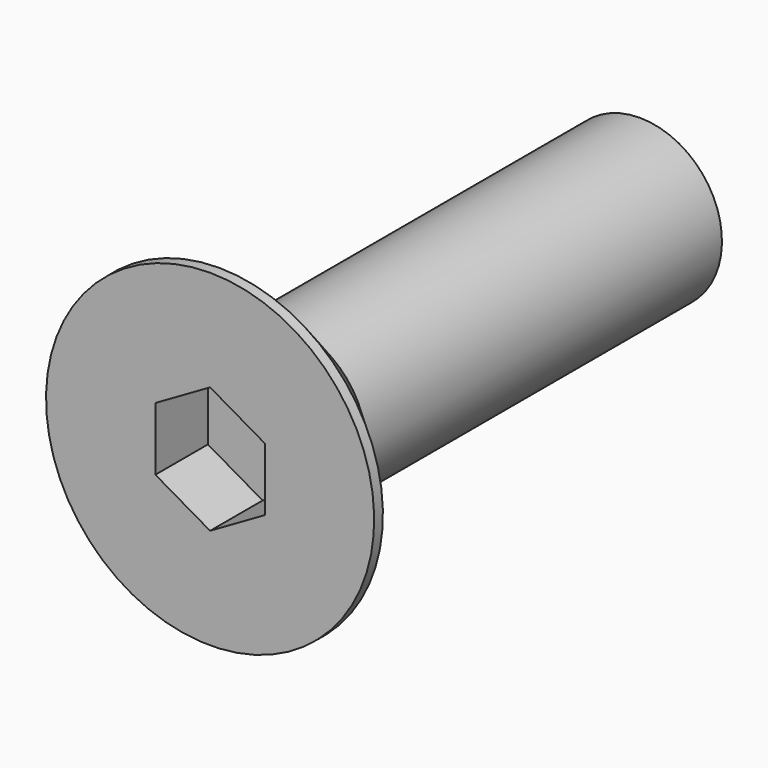
from build123d import *

# Parameters (mm, degrees)
POCKET_DEPTH = 1.2


with BuildPart() as part:
    # Sketch → Revolution (revolve)
    with BuildSketch(Plane.YZ):
        Polygon((0, 0), (0, 3), (0.2, 3), (1.7, 1.5), (9.823908, 1.5), (10, 1.195), (10, 0), align=None)
    revolve(axis=Axis((0, 0, 0), (0, 1, 0)))

    # Sketch001 → Pocket (cut)
    with BuildSketch(Plane(origin=(0, 0, 0), x_dir=(0, 0, -1), z_dir=(0, -1, 0))):
        Polygon((0.57735, 1), (-0.57735, 1), (-1.154701, 0), (-0.57735, -1), (0.57735, -1), (1.154701, 0), align=None)
    extrude(amount=-POCKET_DEPTH, mode=Mode.SUBTRACT)


solid = part.part
